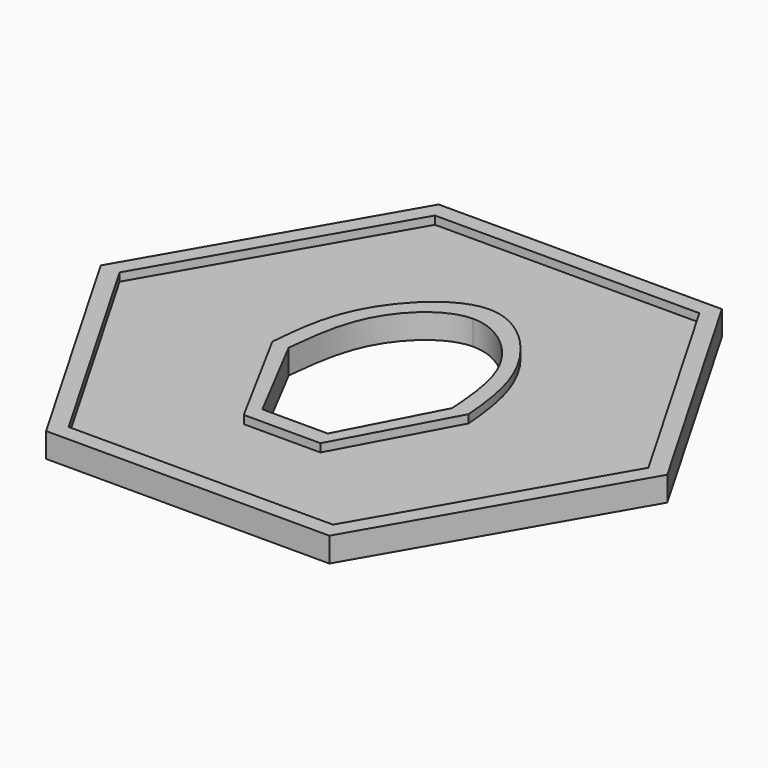
from build123d import *

# Parameters (mm, degrees)
F1_DEPTH = 2.54
F2_DEPTH = 3.81


with BuildPart() as f1:
    # F0 (on Top) → F1 (new body)
    with BuildSketch(Plane.XY):
        Polygon((41.0611511448, 2.6256455048), (20.5305755724, 38.1856455048), (-20.5305755724, 38.1856455048), (-41.0611511448, 2.6256455048), (-20.5305755724, -32.9343544952), (20.5305755724, -32.9343544952), align=None)
        with BuildLine():
            Line((5.977419205, -17.1863544952), (-5.9265298769, -17.1863544952))
            Line((-5.9265298769, -17.1863544952), (-15.24, 0))
            add(Edge.make_bspline(
                [(-15.24, 0), (-14.825320596, 4.5149536905), (-14.1191885863, 13.7915187507), (0.0347505737, 27.7548005127), (13.7424625985, 13.9441287254), (14.8598540172, 4.6121058638), (15.24, 0)],
                knots=[0, 0, 0, 0, 0.2439742516, 0.5002224701, 0.7539137221, 1, 1, 1, 1], degree=3))
            Line((15.24, 0), (5.977419205, -17.1863544952))
        make_face(mode=Mode.SUBTRACT)
    extrude(amount=F1_DEPTH)

    # F0 (on Top) → F2 (join)
    with BuildSketch(Plane.XY):
        Polygon((43.9940905122, 2.6256455048), (21.9970452561, 40.7256455048), (-21.9970452561, 40.7256455048), (-43.9940905122, 2.6256455048), (-21.9970452561, -35.4743544952), (21.9970452561, -35.4743544952), align=None)
        Polygon((-20.5305755724, 38.1856455048), (20.5305755724, 38.1856455048), (41.0611511448, 2.6256455048), (20.5305755724, -32.9343544952), (-20.5305755724, -32.9343544952), (-41.0611511448, 2.6256455048), align=None, mode=Mode.SUBTRACT)
        with BuildLine():
            Line((-15.24, 0), (-5.9265298769, -17.1863544952))
            Line((-5.9265298769, -17.1863544952), (5.977419205, -17.1863544952))
            Line((5.977419205, -17.1863544952), (15.24, 0))
            add(Edge.make_bspline(
                [(-15.24, 0), (-14.825320596, 4.5149536905), (-14.1191885863, 13.7915187507), (0.0347505737, 27.7548005127), (13.7424625985, 13.9441287254), (14.8598540172, 4.6121058638), (15.24, 0)],
                knots=[0, 0, 0, 0, 0.2439742516, 0.5002224701, 0.7539137221, 1, 1, 1, 1], degree=3))
        make_face()
        with BuildLine():
            Line((-5.08, -14.6463544952), (-12.7, 0))
            add(Edge.make_bspline(
                [(-12.7, 0), (-12.2253034569, 4.5328203475), (-11.3062432336, 13.3088161737), (-3.7440989744, 19.8728472347), (0, 19.8976455048)],
                knots=[0, 0, 0, 0, 0.2577987782, 0.4991243481, 0.4991243481, 0.4991243481, 0.4991243481], degree=3))
            add(Edge.make_bspline(
                [(0, 19.8976455048), (3.7810393885, 19.922688442), (11.7360520972, 13.3740822085), (12.372977607, 4.5371999405), (12.7, 0)],
                knots=[0.4991243481, 0.4991243481, 0.4991243481, 0.4991243481, 0.7428309093, 1, 1, 1, 1], degree=3))
            Line((12.7, 0), (5.08, -14.6463544952))
            Line((5.08, -14.6463544952), (0, -14.6463544952))
            Line((0, -14.6463544952), (-5.08, -14.6463544952))
        make_face(mode=Mode.SUBTRACT)
    extrude(amount=F2_DEPTH)


solid = f1.part
